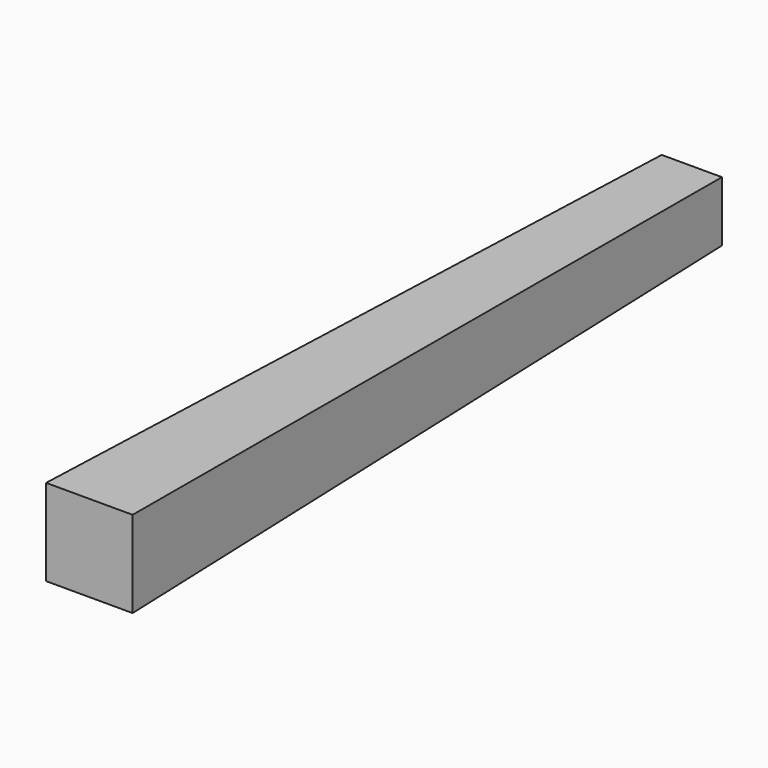
from build123d import *

# Parameters (mm, degrees)
F0_W     = 30
F0_H     = 30
F1_DEPTH = 375
F1_TAPER = -1


with BuildPart() as f1:
    # F0 (on Front) → F1 (new body)
    with BuildSketch(Plane.XZ):
        with Locations((15, -15)):
            Rectangle(F0_W, F0_H)
    extrude(amount=F1_DEPTH, taper=F1_TAPER)


solid = f1.part
